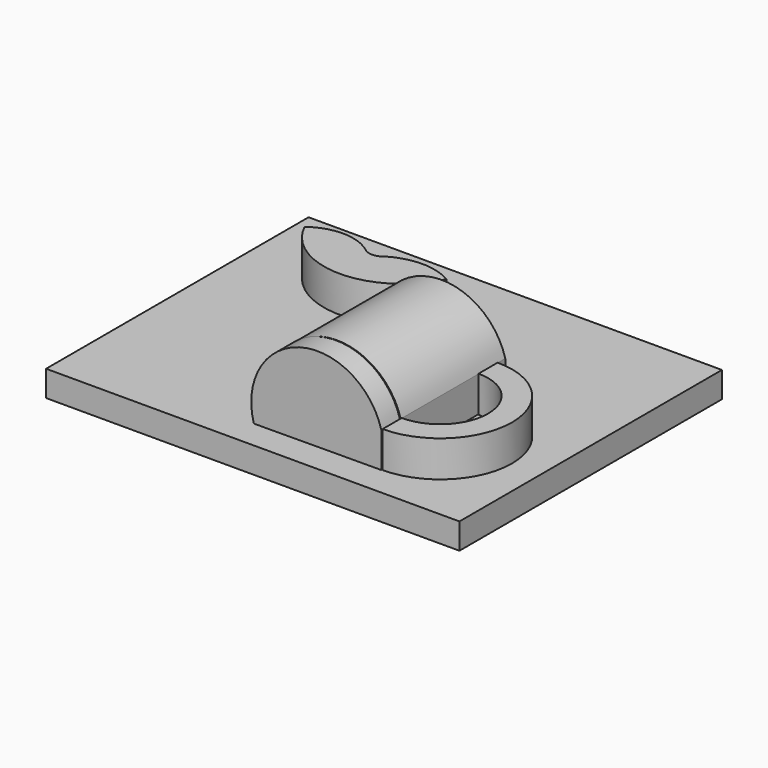
from build123d import *

# Parameters (mm, degrees)
F2_DEPTH      = 5
F3_DEPTH      = 12
F6_START      = 23.4
F6_DEPTH      = 4.5
F7_DEPTH      = 23.2
F7_DEPTH_BACK = 2.1


with BuildPart() as f2:
    # F0 (on Top) → F2 (new body)
    with BuildSketch(Plane.XY):
        Polygon((-40, -33.5), (40, -33.5), (40, -32.5), (40, -30), (40, 30), (-40, 30), (-40, -30), (-40, -32.5), align=None)
    extrude(amount=F2_DEPTH)

    # F1 (on Top) → F3 (join)
    with BuildSketch(Plane.XY):
        with BuildLine():
            ThreePointArc((-2.6521374299, 16.6687909301), (-16.3807168127, 12.4606072464), (-30.1092961955, 16.6687909301))
            ThreePointArc((-30.1092961955, 16.6687909301), (-16.3807168127, 7.9968769917), (-2.6521374299, 16.6687909301))
        make_face()
        with BuildLine():
            ThreePointArc((-14.5791374299, 16.6687909301), (-16.3571438566, 15.9253940397), (-18.1821348298, 16.5445497046))
            ThreePointArc((-18.1821348298, 16.5445497046), (-24.124880914, 18.6067924142), (-30.1092961955, 16.6687909301))
            ThreePointArc((-30.1092961955, 16.6687909301), (-16.3807168127, 12.4606072464), (-2.6521374299, 16.6687909301))
            ThreePointArc((-2.6521374299, 16.6687909301), (-8.6156374299, 18.3140845418), (-14.5791374299, 16.6687909301))
        make_face()
        with BuildLine():
            Line((20.4430632293, -23.025110057), (20.4430632293, -27.6445335891))
            ThreePointArc((20.4430632293, -27.6445335891), (34.3612617995, -13.7263350189), (20.4430632293, 0.1918635513))
            Line((20.4430632293, 0.1918635513), (20.4430632293, -4.4275599807))
            ThreePointArc((20.4430632293, -4.4275599807), (29.7418382675, -13.7263350189), (20.4430632293, -23.025110057))
        make_face()
    extrude(amount=F3_DEPTH)

    # F5 (on Front) → F6 (join)
    with BuildSketch(Plane.XZ.offset(F6_START)):
        with BuildLine():
            Line((20.3935885802, 5.1095173694), (20.3935885802, 11.976900753))
            ThreePointArc((20.3935885802, 11.976900753), (4.5517351525, 20.8753907692), (-4.2704897933, 4.9909395166))
            Line((-4.2704897933, 4.9909395166), (14.5364608753, 5.0813579703))
            Line((14.5364608753, 5.0813579703), (20.3935885802, 5.1095173694))
        make_face()
    extrude(amount=F6_DEPTH)

    # F4 (on Front) → F7 (join, two sides)
    with BuildSketch(Plane.XZ) as f7_sk:
        with BuildLine():
            Line((20.3951951116, 5.0531513989), (20.3951951116, 11.9205347825))
            ThreePointArc((20.3951951116, 11.9205347825), (4.553341684, 20.8190247987), (-4.2688832618, 4.9345735461))
            Line((-4.2688832618, 4.9345735461), (1.6444845672, 4.9630033317))
            Line((1.6444845672, 4.9630033317), (1.5165806981, 5.4129436612))
            ThreePointArc((1.5165806981, 5.4129436612), (8.2922385909, 14.1107486492), (14.5380674067, 5.0249919998))
            Line((14.5380674067, 5.0249919998), (20.3951951116, 5.0531513989))
        make_face()
    extrude(amount=F7_DEPTH)
    extrude(f7_sk.sketch, amount=-F7_DEPTH_BACK)


solid = f2.part
